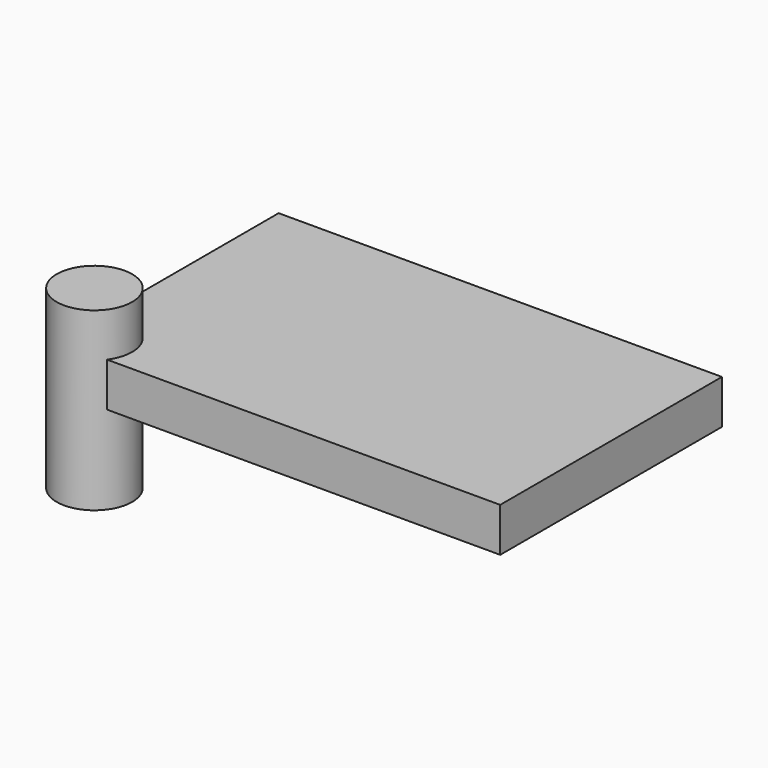
from build123d import *

# Parameters (mm, degrees)
F0_W          = 127.914957
F0_H          = 79.967511
F1_DEPTH      = 12.7
F2_R          = 10.895521
F3_DEPTH      = 25.4
F3_DEPTH_BACK = 25.4


with BuildPart() as f1:
    # F0 (on Top) → F1 (new body)
    with BuildSketch(Plane.XY):
        with Locations((58.292817, 33.537657)):
            Rectangle(F0_W, F0_H)
    extrude(amount=F1_DEPTH)


with BuildPart() as f3:
    # F2 (on Top) → F3 (new body, two sides)
    with BuildSketch(Plane.XY) as f3_sk:
        Circle(F2_R)
    extrude(amount=F3_DEPTH)
    extrude(f3_sk.sketch, amount=-F3_DEPTH_BACK)


solid = Compound([f1.part, f3.part])
